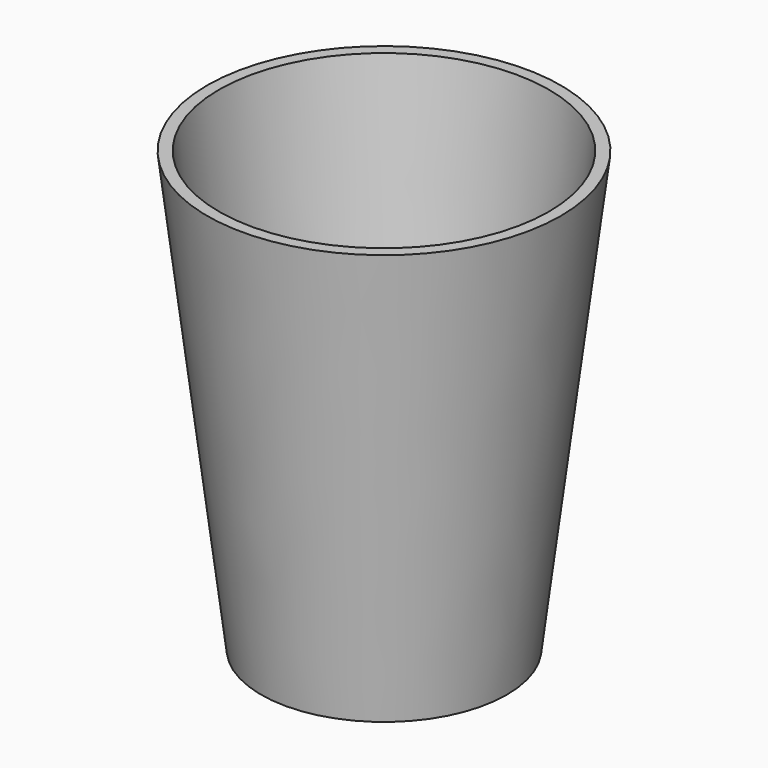
from build123d import *

# Parameters (mm, degrees)
F0_R     = 26.67
F1_DEPTH = 95.25
F1_TAPER = -7
F2_T     = -2.54


with BuildPart() as f1:
    # F0 (on Top) → F1 (new body)
    with BuildSketch(Plane.XY):
        Circle(F0_R)
    extrude(amount=F1_DEPTH, taper=F1_TAPER)

    # F2
    f2_openings = [f1.faces().sort_by_distance(p)[0] for p in [
        (0, 0, 95.25),
    ]]
    offset(amount=F2_T, openings=f2_openings, kind=Kind.INTERSECTION)


solid = f1.part
